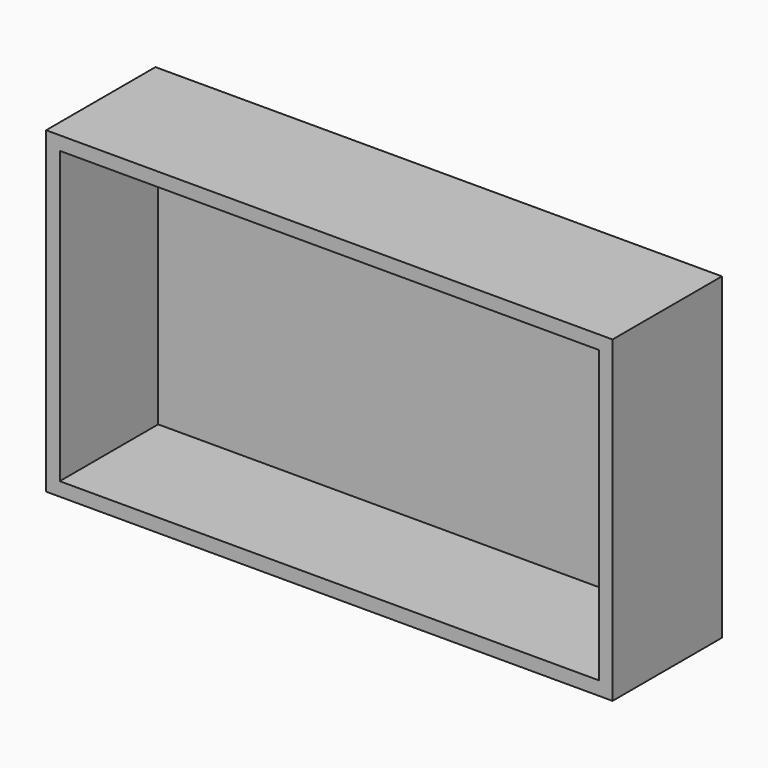
from build123d import *

# Parameters (mm, degrees)
F1_DEPTH = 25.4
F2_T     = -2.54


with BuildPart() as f1:
    # F0 (on Front) → F1 (new body)
    with BuildSketch(Plane.XZ):
        Polygon((-32.8051820397, 24.5768204331), (-52.0768724382, 24.5768204331), (-52.0768724382, -34.5374681056), (-21.7618532479, -34.5374681056), align=None)
        Polygon((53.1595535576, 24.5768204331), (-32.8051820397, 24.5768204331), (-21.7618532479, -34.5374681056), (53.1595535576, -34.5374681056), align=None)
    extrude(amount=F1_DEPTH)

    # F2
    f2_openings = [f1.faces().sort_by_distance(p)[0] for p in [
        (0.541341, -25.4, -4.980324),
    ]]
    offset(amount=F2_T, openings=f2_openings)


solid = f1.part
